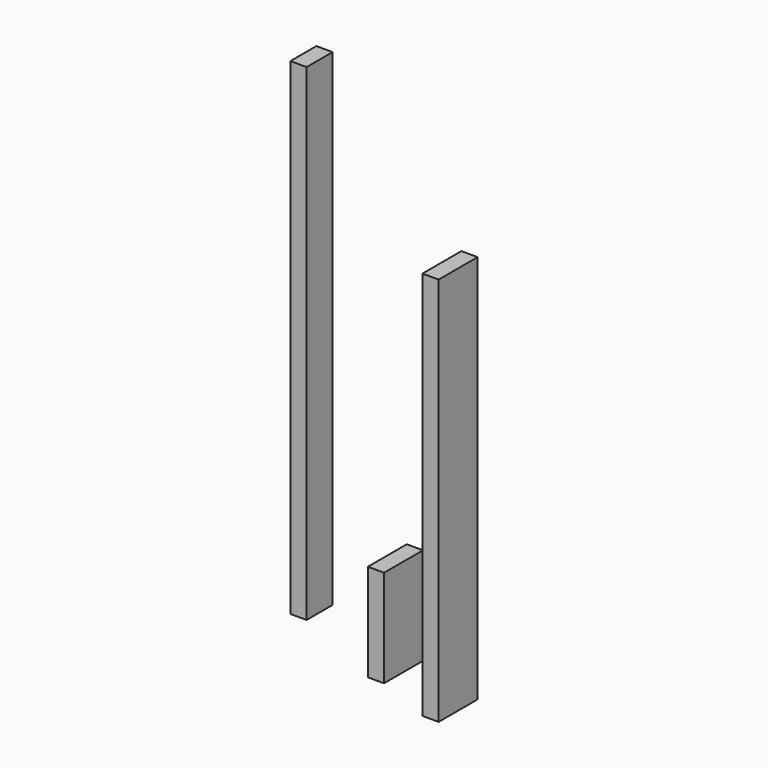
from build123d import *

# Parameters (mm, degrees)
F0_W     = 50.8
F0_H     = 152.4
F1_DEPTH = 304.8
F2_W     = 50.8
F2_H     = 152.4
F3_DEPTH = 1219.2
F4_W     = 50.8
F4_H     = 101.6
F5_DEPTH = 1524


with BuildPart() as f1:
    # F0 (on Top) → F1 (new body)
    with BuildSketch(Plane.XY):
        Rectangle(F0_W, F0_H)
    extrude(amount=F1_DEPTH)


with BuildPart() as f3:
    # F2 (on Top) → F3 (new body)
    with BuildSketch(Plane.XY):
        with Locations((231.898241, -76.2)):
            Rectangle(F2_W, F2_H)
    extrude(amount=F3_DEPTH)


with BuildPart() as f5:
    # F4 (on Top) → F5 (new body)
    with BuildSketch(Plane.XY):
        with Locations((-357.309997, 118.190147)):
            Rectangle(F4_W, F4_H)
    extrude(amount=F5_DEPTH)


solid = Compound([f1.part, f3.part, f5.part])
